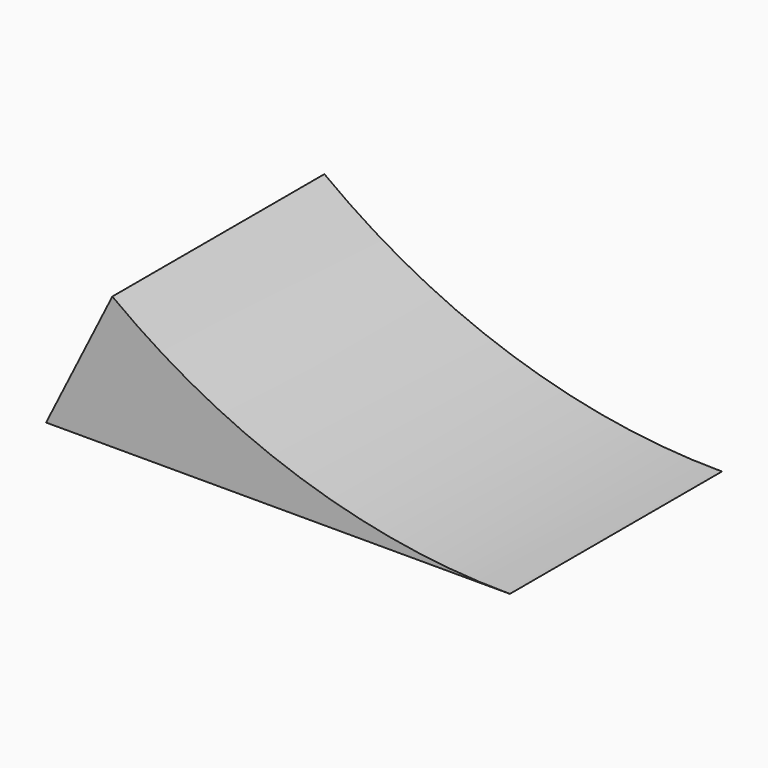
from build123d import *

# Parameters (mm, degrees)
F1_DEPTH = 304.8


with BuildPart() as f1:
    # F0 (on Front) → F1 (new body, symmetric)
    with BuildSketch(Plane.XZ):
        with BuildLine():
            ThreePointArc((533.4, -152.4), (51.468885, -74.193346), (-381, 152.4))
            Line((-381, 152.4), (-533.4, -152.4))
            Line((-533.4, -152.4), (533.4, -152.4))
        make_face()
    extrude(amount=F1_DEPTH, both=True)


solid = f1.part
